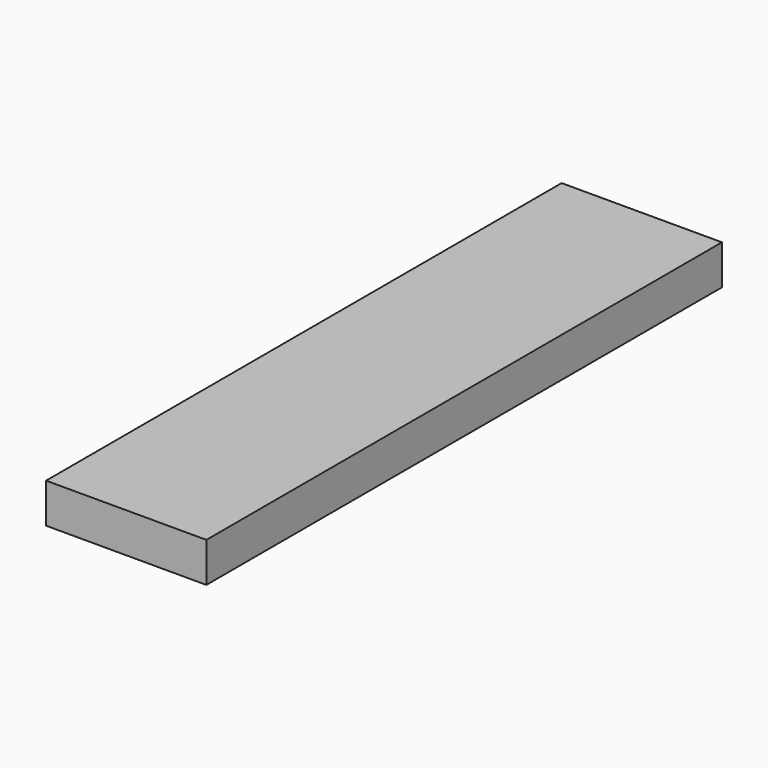
from build123d import *

# Parameters (mm, degrees)
SKETCH_W  = 101
SKETCH_H  = 406
PAD_DEPTH = 25


with BuildPart() as part:
    # Sketch → Pad (new body)
    with BuildSketch(Plane.XY):
        with Locations((50.5, 203)):
            Rectangle(SKETCH_W, SKETCH_H)
    extrude(amount=PAD_DEPTH)


solid = part.part
